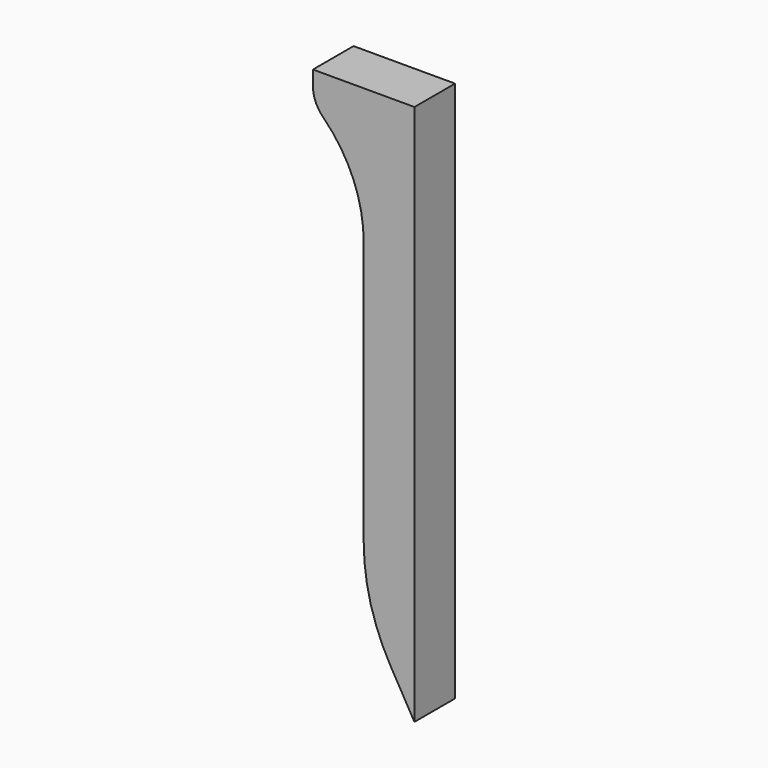
from build123d import *

# Parameters (mm, degrees)
F1_DEPTH = 19.05


with BuildPart() as f1:
    # F0 (on Front) → F1 (new body)
    with BuildSketch(Plane.XZ):
        with BuildLine():
            Line((-8.841136, 15.313296), (0, 0))
            Line((0, 0), (0, 203.2))
            Line((0, 203.2), (-38.1, 203.2))
            Line((-38.1, 203.2), (-38.1, 197.752561))
            ThreePointArc((-38.1, 197.752561), (-37.13327, 192.892482), (-34.380256, 188.772305))
            Line((-34.380256, 188.772305), (-33.928976, 188.321024))
            ThreePointArc((-33.928976, 188.321024), (-22.91692, 171.840318), (-19.05, 152.4))
            Line((-19.05, 152.4), (-19.05, 53.413296))
            ThreePointArc((-19.05, 53.413296), (-16.453548, 33.691285), (-8.841136, 15.313296))
        make_face()
    extrude(amount=F1_DEPTH)


solid = f1.part
